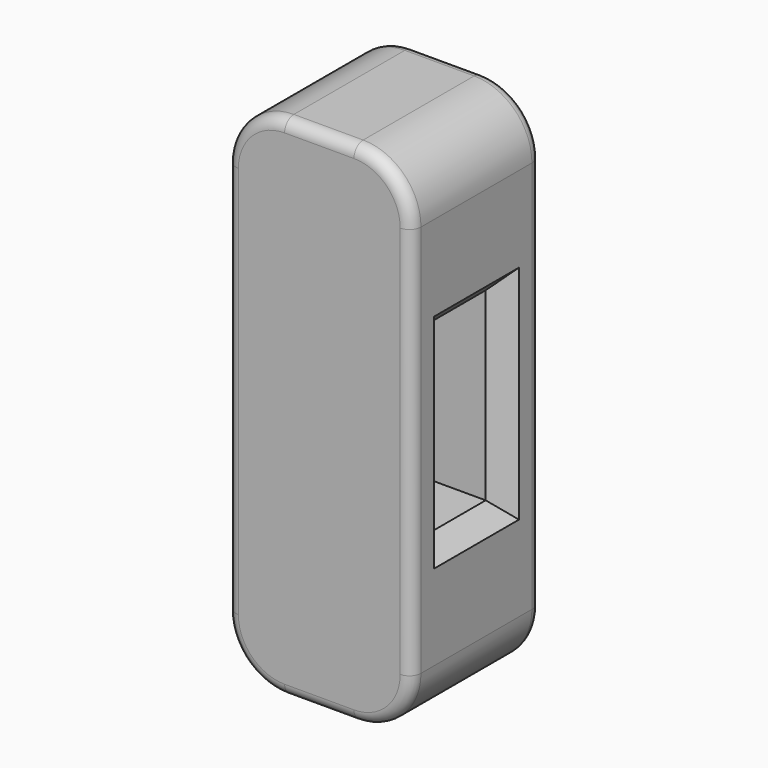
from build123d import *

# Parameters (mm, degrees)
F1_DEPTH = 44.45
F2_R     = 3.175
F3_W     = 19.05
F3_H     = 50.8
F4_DEPTH = 50.801
F5_SIZE  = 5.08


with BuildPart() as f1:
    # F0 (on Front) → F1 (new body)
    with BuildSketch(Plane.XZ):
        with BuildLine():
            ThreePointArc((25.4, 53.975), (20.75032, 65.20032), (9.525, 69.85))
            Line((9.525, 69.85), (-9.525, 69.85))
            ThreePointArc((-9.525, 69.85), (-20.75032, 65.20032), (-25.4, 53.975))
            Line((-25.4, 53.975), (-25.4, -53.975))
            ThreePointArc((-25.4, -53.975), (-20.75032, -65.20032), (-9.525, -69.85))
            Line((-9.525, -69.85), (9.525, -69.85))
            ThreePointArc((9.525, -69.85), (20.75032, -65.20032), (25.4, -53.975))
            Line((25.4, -53.975), (25.4, 53.975))
        make_face()
    extrude(amount=F1_DEPTH)

    # F2
    f2_edges = [f1.edges().sort_by_distance(p)[0] for p in [
        (20.75032, -44.45, 65.20032),
        (0, -44.45, 69.85),
        (-20.75032, -44.45, 65.20032),
        (-25.4, -44.45, 0),
        (-20.75032, -44.45, -65.20032),
        (0, -44.45, -69.85),
        (20.75032, -44.45, -65.20032),
        (25.4, -44.45, 0),
        (20.75032, 0, 65.20032),
        (0, 0, 69.85),
        (-20.75032, 0, 65.20032),
        (-25.4, 0, 0),
        (-20.75032, 0, -65.20032),
        (0, 0, -69.85),
        (20.75032, 0, -65.20032),
        (25.4, 0, 0),
    ]]
    fillet(f2_edges, radius=F2_R)

    # F3 (on face) → F4 (cut, through all)
    with BuildSketch(Plane.YZ.offset(25.4)):
        with Locations((-22.225, 0)):
            Rectangle(F3_W, F3_H)
    extrude(amount=-F4_DEPTH, mode=Mode.SUBTRACT)

    # F5
    f5_edges = [f1.edges().sort_by_distance(p)[0] for p in [
        (25.4, -31.75, 0),
        (25.4, -22.225, 25.4),
        (25.4, -12.7, 0),
        (25.4, -22.225, -25.4),
        (-25.4, -22.225, 25.4),
        (-25.4, -31.75, 0),
        (-25.4, -22.225, -25.4),
        (-25.4, -12.7, 0),
    ]]
    chamfer(f5_edges, length=F5_SIZE)


solid = f1.part
